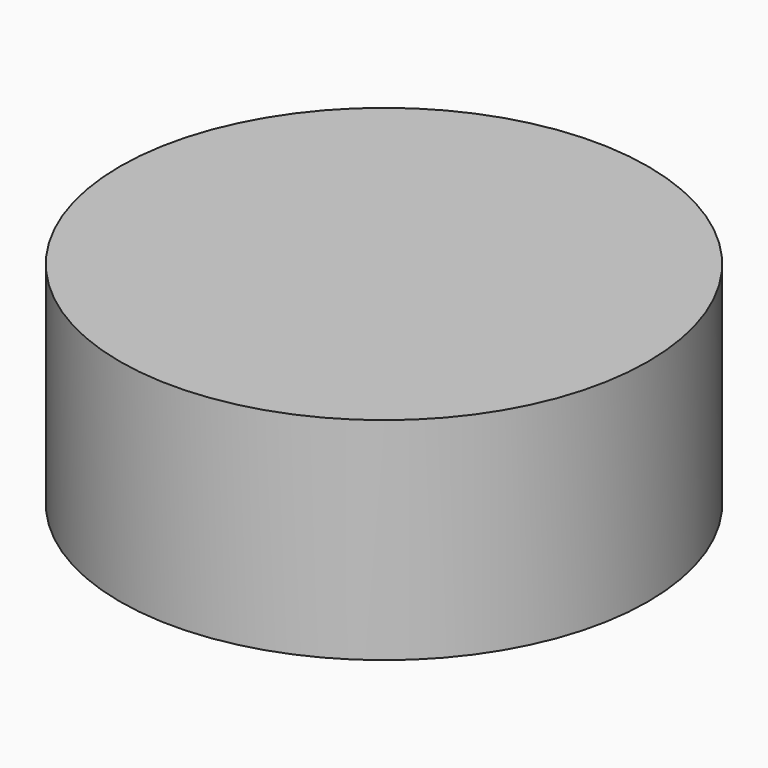
from build123d import *

# Parameters (mm, degrees)
CYLINDER004_R     = 5
CYLINDER004_DEPTH = 4


with BuildPart() as f_623zz:
    # Cylinder004 → Cylinder004 (new body)
    with BuildSketch(Plane(origin=(97, 17, 8), x_dir=(1, 0, 0), z_dir=(0, 0, 1))):
        Circle(CYLINDER004_R)
    extrude(amount=CYLINDER004_DEPTH)


with BuildPart() as part_mirroring007:
    # Part__Mirroring007: instance of 623ZZ
    add(f_623zz.part.mirror(Plane(origin=(0, 0, 0), x_dir=(1, 0, 0), z_dir=(0, 1, 0))))


with BuildPart() as part_mirroring009:
    # Part__Mirroring009: instance of Part__Mirroring007
    add(part_mirroring007.part.mirror(Plane(origin=(0, 0, 0), x_dir=(0, -1, 0), z_dir=(1, 0, 0))))


solid = part_mirroring009.part
